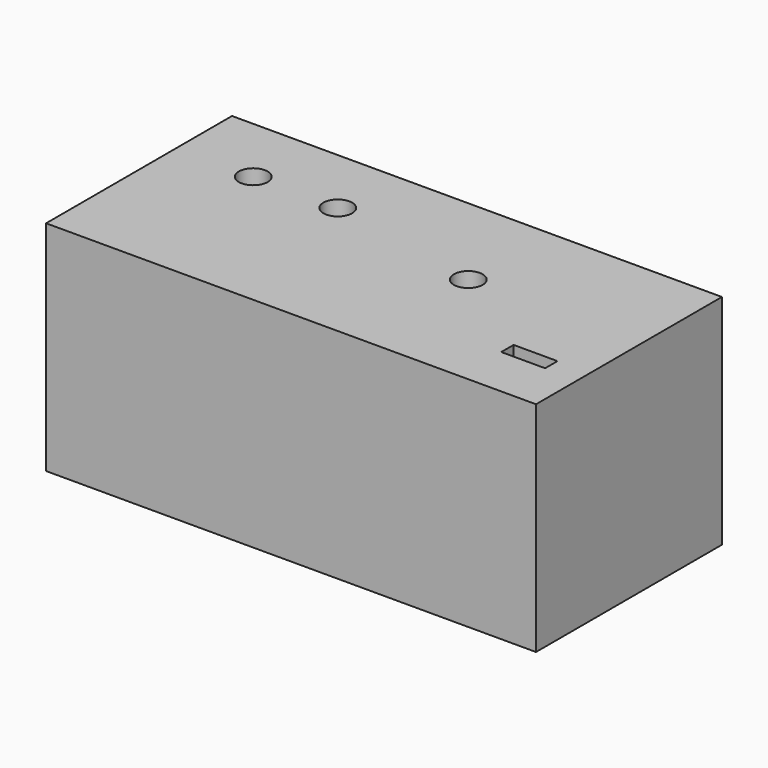
from build123d import *

# Parameters (mm, degrees)
F1_W     = 56.1511553824
F1_H     = 26.6322242096
F1_W_2   = 5.0284620374
F1_H_2   = 1.7692742404
F2_DEPTH = 25
F3_D     = 3.3
F3_DEPTH = 40
F3_TIP   = 0.9914200214


with BuildPart() as f2:
    # F1 (on Top) → F2 (new body)
    with BuildSketch(Plane.XY):
        with Locations((-53.7212248892, 3.2591815107)):
            Rectangle(F1_W, F1_H)
        with Locations((-31.8846637383, -3.2126350561)):
            Rectangle(F1_W_2, F1_H_2, mode=Mode.SUBTRACT)
    extrude(amount=F2_DEPTH)

    # F3
    with Locations(Plane(origin=(0, 0, 0), x_dir=(1, 0, 0), z_dir=(0, 0, -1))):
        with Locations((-72.950437665, -8.5670026019), (-63.2659867406, -8.5670026019), (-45.4801358283, -5.0284550525)):
            Hole(F3_D / 2, depth=F3_DEPTH)
            with Locations((0, 0, -(F3_DEPTH + F3_TIP / 2))):  # 118° drill point
                Cone(0, F3_D / 2, F3_TIP, mode=Mode.SUBTRACT)


solid = f2.part
